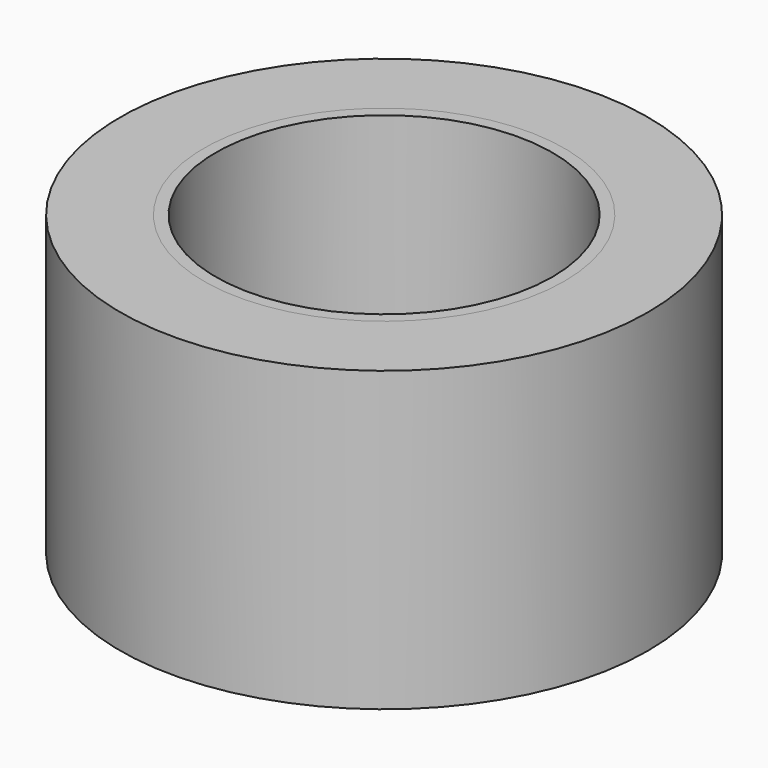
from build123d import *

# Parameters (mm, degrees)
F0_R        = 45.004612
F0_R_2      = 30.670883
F1_DEPTH    = 25.4
F1_FACE_R   = 45.004612
F1_FACE_R_2 = 30.670883
F2_DEPTH    = 25.4
F3_R        = 30.724669
F3_R_2      = 28.705733
F4_DEPTH    = 50.8


with BuildPart() as f1:
    # F0 (on Top) → F1 (new body)
    with BuildSketch(Plane.XY):
        Circle(F0_R)
        Circle(F0_R_2, mode=Mode.SUBTRACT)
    extrude(amount=F1_DEPTH)

    # F1_face (on face) → F2 (join)
    with BuildSketch(Plane.XY.offset(25.4)):
        Circle(F1_FACE_R)
        Circle(F1_FACE_R_2, mode=Mode.SUBTRACT)
    extrude(amount=F2_DEPTH)


with BuildPart() as f4:
    # F3 (on Top) → F4 (new body)
    with BuildSketch(Plane.XY):
        Circle(F3_R)
        Circle(F3_R_2, mode=Mode.SUBTRACT)
    extrude(amount=F4_DEPTH)


solid = Compound([f1.part, f4.part])
